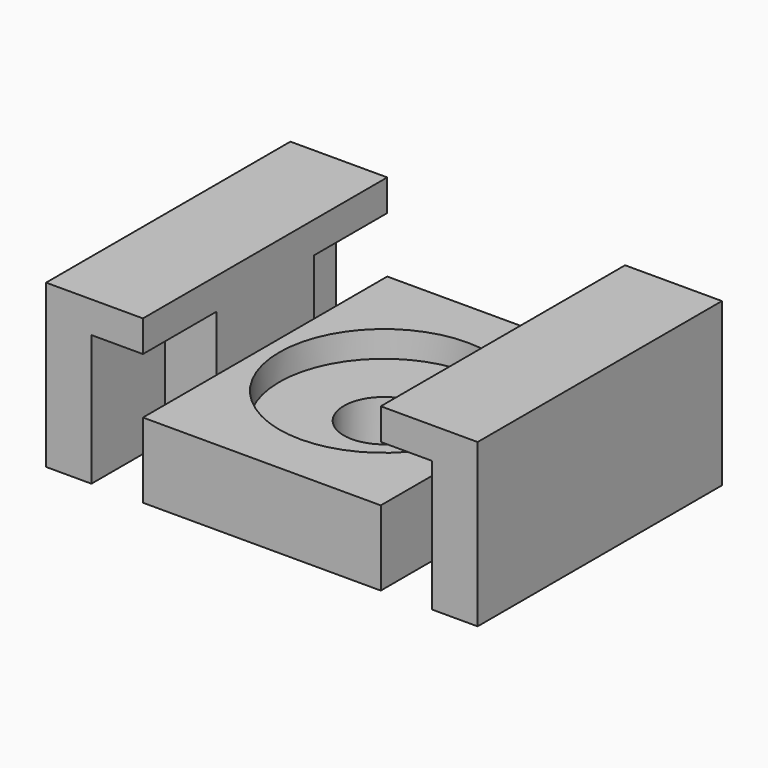
from build123d import *

# Parameters (mm, degrees)
F1_DEPTH = 9.3
F0_R     = 6
F2_DEPTH = 4.3
F0_R_2   = 2.3
F3_DEPTH = 2.8
F5_DEPTH = 5.26
F6_DEPTH = 5.26
F8_DEPTH = 5.26
F9_DEPTH = 5.26


with BuildPart() as f1:
    # F0 (on Top) → F1 (new body)
    with BuildSketch(Plane.XY):
        Polygon((36.2151488662, -0.8635242283), (33.6151488662, -0.8635242283), (33.6151488662, -6.1235242283), (30.6651488662, -6.1235242283), (30.6651488662, -13.1035242283), (33.6151488662, -13.1035242283), (33.6151488662, -18.3635242283), (36.2151488662, -18.3635242283), align=None)
    extrude(amount=F1_DEPTH)



with BuildPart() as f1b:
    # F0 (on Top) → F1, piece 2 (new body)
    with BuildSketch(Plane.XY):
        Polygon((14.0851488662, -0.8635242283), (11.4851488662, -0.8635242283), (11.4851488662, -18.3635242283), (14.0851488662, -18.3635242283), (14.0851488662, -13.1035242283), (17.0351488662, -13.1035242283), (17.0351488662, -6.1235242283), (14.0851488662, -6.1235242283), align=None)
    extrude(amount=F1_DEPTH)


with BuildPart() as f1_1:
    add(f1.part)

    add(f1b.part)  # F2 merges F1b
    # F0 (on Top) → F2 (join)
    with BuildSketch(Plane.XY):
        Polygon((30.6651488662, -0.8635242283), (17.0351488662, -0.8635242283), (17.0351488662, -6.1235242283), (17.0351488662, -13.1035242283), (17.0351488662, -18.3635242283), (30.6651488662, -18.3635242283), (30.6651488662, -13.1035242283), (30.6651488662, -6.1235242283), align=None)
        with Locations((23.8501488662, -9.6135242283)):
            Circle(F0_R, mode=Mode.SUBTRACT)
    extrude(amount=F2_DEPTH)

    # F0 (on Top) → F3 (join)
    with BuildSketch(Plane.XY):
        with Locations((23.8501488662, -9.6135242283)):
            Circle(F0_R)
        with Locations((23.8501488662, -9.6135242283)):
            Circle(F0_R_2, mode=Mode.SUBTRACT)
    extrude(amount=F3_DEPTH)

    # F4 (on face) → F5 (join)
    with BuildSketch(Plane.XZ.offset(13.1035242283)):
        Polygon((15.3120337054, 7.5), (17.0351488662, 7.5), (17.0351488662, 9.3), (14.0851488662, 9.3), (14.0851488662, 7.5), align=None)
    extrude(amount=F5_DEPTH)

    # F4 (on face) → F6 (join)
    with BuildSketch(Plane.XZ.offset(13.1035242283)):
        Polygon((32.3882640269, 7.5), (33.6151488662, 7.5), (33.6151488662, 9.3), (30.6651488662, 9.3), (30.6651488662, 7.5), align=None)
    extrude(amount=F6_DEPTH)

    # F7 (on face) → F8 (join)
    with BuildSketch(Plane(origin=(0, -6.1235242283, 0), x_dir=(-1, 0, 0), z_dir=(0, 1, 0))):
        Polygon((-32.1401488662, 7.5), (-30.6651488662, 7.5), (-30.6651488662, 9.3), (-33.6151488662, 9.3), (-33.6151488662, 7.5), align=None)
    extrude(amount=F8_DEPTH)

    # F7 (on face) → F9 (join)
    with BuildSketch(Plane(origin=(0, -6.1235242283, 0), x_dir=(-1, 0, 0), z_dir=(0, 1, 0))):
        Polygon((-15.5601488662, 7.5), (-14.0851488662, 7.5), (-14.0851488662, 9.3), (-17.0351488662, 9.3), (-17.0351488662, 7.5), align=None)
    extrude(amount=F9_DEPTH)


solid = f1_1.part
